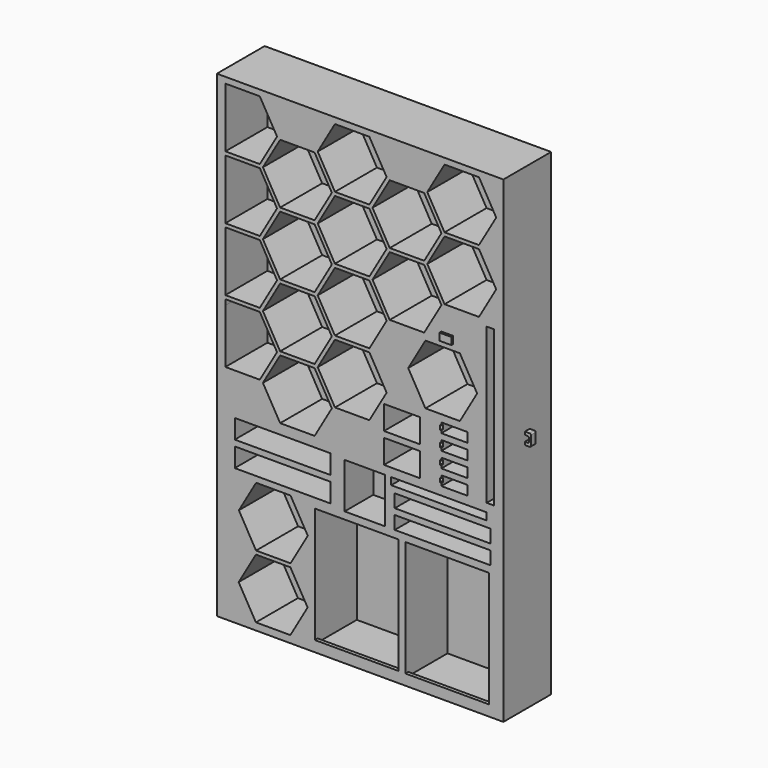
from build123d import *

# Parameters (mm, degrees)
F0_W      = 1200
F0_H      = 250
F1_DEPTH  = 2000
F2_W      = 40
F2_H      = 650
F2_W_2    = 400
F2_H_2    = 40
F3_DEPTH  = 220
F5_W      = 15
F5_H      = 650
F6_DEPTH  = 10
F8_W      = 400
F8_H      = 15
F9_DEPTH  = 10
F10_W     = 110
F10_H     = 40
F11_DEPTH = 75
F14_DEPTH = 9
F17_R     = 2.25
F18_DEPTH = 5
F19_R     = 2.25
F20_DEPTH = 5
F21_W     = 110
F21_H     = 40
F22_DEPTH = 75
F25_DEPTH = 9
F28_R     = 2.25
F29_DEPTH = 5
F30_R     = 2.25
F31_DEPTH = 5
F32_W     = 110
F32_H     = 40
F33_DEPTH = 75
F36_DEPTH = 9
F39_R     = 2.25
F40_DEPTH = 5
F41_R     = 2.25
F42_DEPTH = 5
F44_W     = 150
F44_H     = 100
F45_DEPTH = 150
F47_DEPTH = 220
F49_W     = 110
F49_H     = 40
F50_DEPTH = 75
F52_DEPTH = 9
F55_R     = 2.25
F56_DEPTH = 5
F57_R     = 2.25
F58_DEPTH = 5
F59_W     = 50
F59_H     = 30
F60_DEPTH = 10
F43_W     = 350
F43_H     = 500
F61_DEPTH = 220
F63_W     = 350
F63_H     = 15
F64_DEPTH = 15
F65_W     = 400
F65_H     = 80
F65_W_2   = 170
F65_H_2   = 190
F65_H_3   = 55
F66_DEPTH = 220
F67_W     = 400
F67_H     = 80
F67_W_2   = 170
F67_H_2   = 190
F67_H_3   = 55
F68_DEPTH = 70
F70_W     = 25
F70_H     = 50
F71_DEPTH = 25
F72_W     = 17
F72_H     = 25
F73_DEPTH = 230
F74_R     = 5


with BuildPart() as f1:
    # F0 (on Top) → F1 (new body)
    with BuildSketch(Plane.XY):
        with Locations((6.9150235504, -6.4473892562)):
            Rectangle(F0_W, F0_H)
    extrude(amount=F1_DEPTH)

    # F2 (on face) → F3 (cut)
    with BuildSketch(Plane.XZ.offset(131.4473892562)):
        with Locations((556.9150235504, 1110)):
            Rectangle(F2_W, F2_H)
        with Locations((336.9150235504, 740)):
            Rectangle(F2_W_2, F2_H_2)
    extrude(amount=-F3_DEPTH, mode=Mode.SUBTRACT)

    # F5 (on offset) → F6 (join)
    with BuildSketch(Plane.YZ.offset(576.9150235504)):
        with Locations((-123.9473892562, 1110)):
            Rectangle(F5_W, F5_H)
    extrude(amount=-F6_DEPTH)

    # F8 (on offset) → F9 (join)
    with BuildSketch(Plane.XY.offset(760)):
        with Locations((336.9150235504, -123.9473892562)):
            Rectangle(F8_W, F8_H)
    extrude(amount=-F9_DEPTH)

    # F10 (on face) → F11 (cut)
    with BuildSketch(Plane.XZ.offset(131.4473892562)):
        with Locations((401.9150235504, 805)):
            Rectangle(F10_W, F10_H)
    extrude(amount=-F11_DEPTH, mode=Mode.SUBTRACT)

    # F13 (on offset) → F14 (cut, symmetric)
    with BuildSketch(Plane.XY.offset(805)):
        with BuildLine():
            Line((351.4358103275, -123.4473892562), (346.9150235504, -123.4473892562))
            ThreePointArc((346.9150235504, -123.4473892562), (338.9150235504, -127.4473892562), (346.9150235504, -131.4473892562))
            Line((346.9150235504, -131.4473892562), (351.4358103275, -131.4473892562))
            Line((351.4358103275, -131.4473892562), (351.4358103275, -123.4473892562))
        make_face()
    extrude(amount=F14_DEPTH, both=True, mode=Mode.SUBTRACT)

    # F17 (on offset) → F18 (cut)
    with BuildSketch(Plane.XY.offset(814)):
        with Locations((343.9150235504, -127.4473892562)):
            Circle(F17_R)
    extrude(amount=F18_DEPTH, mode=Mode.SUBTRACT)

    # F19 (on offset) → F20 (cut)
    with BuildSketch(Plane.XY.offset(796)):
        with Locations((343.9150235504, -127.4473892562)):
            Circle(F19_R)
    extrude(amount=-F20_DEPTH, mode=Mode.SUBTRACT)

    # F21 (on face) → F22 (cut)
    with BuildSketch(Plane.XZ.offset(131.4473892562)):
        with Locations((401.9150235504, 870)):
            Rectangle(F21_W, F21_H)
    extrude(amount=-F22_DEPTH, mode=Mode.SUBTRACT)

    # F24 (on offset) → F25 (cut, symmetric)
    with BuildSketch(Plane.XY.offset(870)):
        with BuildLine():
            Line((351.4358103275, -123.4473892562), (346.9150235504, -123.4473892562))
            ThreePointArc((346.9150235504, -123.4473892562), (338.9150235504, -127.4473892562), (346.9150235504, -131.4473892562))
            Line((346.9150235504, -131.4473892562), (351.4358103275, -131.4473892562))
            Line((351.4358103275, -131.4473892562), (351.4358103275, -123.4473892562))
        make_face()
    extrude(amount=F25_DEPTH, both=True, mode=Mode.SUBTRACT)

    # F28 (on offset) → F29 (cut)
    with BuildSketch(Plane.XY.offset(879)):
        with Locations((343.9150235504, -127.4473892562)):
            Circle(F28_R)
    extrude(amount=F29_DEPTH, mode=Mode.SUBTRACT)

    # F30 (on offset) → F31 (cut)
    with BuildSketch(Plane.XY.offset(861)):
        with Locations((343.9150235504, -127.4473892562)):
            Circle(F30_R)
    extrude(amount=-F31_DEPTH, mode=Mode.SUBTRACT)

    # F32 (on face) → F33 (cut)
    with BuildSketch(Plane.XZ.offset(131.4473892562)):
        with Locations((401.9150235504, 935)):
            Rectangle(F32_W, F32_H)
    extrude(amount=-F33_DEPTH, mode=Mode.SUBTRACT)

    # F35 (on offset) → F36 (cut, symmetric)
    with BuildSketch(Plane.XY.offset(935)):
        with BuildLine():
            Line((346.9150235504, -131.4473892562), (346.9150235504, -123.4473892562))
            ThreePointArc((346.9150235504, -123.4473892562), (338.9150235504, -127.4473892562), (346.9150235504, -131.4473892562))
        make_face()
    extrude(amount=F36_DEPTH, both=True, mode=Mode.SUBTRACT)

    # F39 (on offset) → F40 (cut)
    with BuildSketch(Plane.XY.offset(944)):
        with Locations((343.9150235504, -127.4473892562)):
            Circle(F39_R)
    extrude(amount=F40_DEPTH, mode=Mode.SUBTRACT)

    # F41 (on offset) → F42 (cut)
    with BuildSketch(Plane.XY.offset(926)):
        with Locations((343.9150235504, -127.4473892562)):
            Circle(F41_R)
    extrude(amount=-F42_DEPTH, mode=Mode.SUBTRACT)

    # F44 (on face) → F45 (cut)
    with BuildSketch(Plane.XZ.offset(131.4473892562)):
        with Locations((181.9150235504, 960)):
            Rectangle(F44_W, F44_H)
        with Locations((181.9150235504, 835)):
            Rectangle(F44_W, F44_H)
    extrude(amount=-F45_DEPTH, mode=Mode.SUBTRACT)

    # F46 (on face) → F47 (cut)
    with BuildSketch(Plane.XZ.offset(131.4473892562)):
        Polygon((424.7462399017, 1050), (496.9150235504, 1175), (424.7462399017, 1300), (280.4086726043, 1300), (208.2398889556, 1175), (280.4086726043, 1050), align=None)
    extrude(amount=-F47_DEPTH, mode=Mode.SUBTRACT)

    # F49 (on face) → F50 (cut)
    with BuildSketch(Plane.XZ.offset(131.4473892562)):
        with Locations((401.9150235504, 1000)):
            Rectangle(F49_W, F49_H)
    extrude(amount=-F50_DEPTH, mode=Mode.SUBTRACT)

    # F51 (on offset) → F52 (cut, symmetric)
    with BuildSketch(Plane.XY.offset(1000)):
        with BuildLine():
            Line((346.9150235504, -131.4473892562), (346.9150235504, -123.4473892562))
            ThreePointArc((346.9150235504, -123.4473892562), (338.9150235504, -127.4473892562), (346.9150235504, -131.4473892562))
        make_face()
    extrude(amount=F52_DEPTH, both=True, mode=Mode.SUBTRACT)

    # F55 (on offset) → F56 (cut)
    with BuildSketch(Plane.XY.offset(1009)):
        with Locations((343.9150235504, -127.4473892562)):
            Circle(F55_R)
    extrude(amount=F56_DEPTH, mode=Mode.SUBTRACT)

    # F57 (on offset) → F58 (cut)
    with BuildSketch(Plane.XY.offset(991)):
        with Locations((343.9150235504, -127.4473892562)):
            Circle(F57_R)
    extrude(amount=-F58_DEPTH, mode=Mode.SUBTRACT)

    # F59 (on face) → F60 (join)
    with BuildSketch(Plane.XZ.offset(131.4473892562)):
        with Locations((371.9150235504, 1340)):
            Rectangle(F59_W, F59_H)
    extrude(amount=F60_DEPTH)

    # F43 (on face) → F61 (cut)
    with BuildSketch(Plane.XZ.offset(131.4473892562)):
        with Locations((371.9150235504, 280)):
            Rectangle(F43_W, F43_H)
        with Locations((-8.0849764496, 280)):
            Rectangle(F43_W, F43_H)
    extrude(amount=-F61_DEPTH, mode=Mode.SUBTRACT)

    # F63 (on offset) → F64 (join)
    with BuildSketch(Plane.XY.offset(30)):
        with Locations((-8.0849764496, -123.9473892562)):
            Rectangle(F63_W, F63_H)
        with Locations((371.9150235504, -123.9473892562)):
            Rectangle(F63_W, F63_H)
    extrude(amount=F64_DEPTH)

    # F65 (on face) → F66 (cut)
    with BuildSketch(Plane.XZ.offset(131.4473892562)):
        Polygon((504.7462399017, 1975), (360.4086726043, 1975), (288.2398889556, 1850), (360.4086726043, 1725), (504.7462399017, 1725), (576.9150235504, 1850), align=None)
        Polygon((275.2495078988, 1842.5), (130.9119406014, 1842.5), (58.7431569527, 1717.5), (130.9119406014, 1592.5), (275.2495078988, 1592.5), (347.4182915475, 1717.5), align=None)
        Polygon((504.7462399017, 1710), (360.4086726043, 1710), (288.2398889556, 1585), (360.4086726043, 1460), (504.7462399017, 1460), (576.9150235504, 1585), align=None)
        Polygon((275.2495078989, 1577.5), (130.9119406014, 1577.5), (58.7431569527, 1452.5), (130.9119406014, 1327.5), (275.2495078989, 1327.5), (347.4182915476, 1452.5), align=None)
        Polygon((45.752775896, 1975), (-98.5847914014, 1975), (-170.7535750501, 1850), (-98.5847914014, 1725), (45.752775896, 1725), (117.9215595446, 1850), align=None)
        Polygon((45.7527758959, 1710), (-98.5847914014, 1710), (-170.7535750501, 1585), (-98.5847914014, 1460), (45.7527758959, 1460), (117.9215595446, 1585), align=None)
        Polygon((-183.7439561069, 1842.5), (-328.0815234043, 1842.5), (-400.250307053, 1717.5), (-328.0815234043, 1592.5), (-183.7439561069, 1592.5), (-111.5751724582, 1717.5), align=None)
        Polygon((-183.7439561068, 1577.5), (-328.0815234043, 1577.5), (-400.250307053, 1452.5), (-328.0815234043, 1327.5), (-183.7439561069, 1327.5), (-111.5751724581, 1452.5), align=None)
        Polygon((45.7527758961, 1445), (-98.5847914013, 1445), (-170.75357505, 1320), (-98.5847914013, 1195), (45.7527758961, 1195), (117.9215595448, 1320), align=None)
        Polygon((-183.7439561068, 1312.5), (-328.0815234042, 1312.5), (-400.2503070529, 1187.5), (-328.0815234042, 1062.5), (-183.7439561068, 1062.5), (-111.5751724581, 1187.5), align=None)
        Polygon((45.7527758962, 1180), (-98.5847914012, 1180), (-170.7535750499, 1055), (-98.5847914012, 930), (45.7527758962, 930), (117.9215595449, 1055), align=None)
        Polygon((-183.7439561067, 1047.5), (-328.0815234041, 1047.5), (-400.2503070528, 922.5), (-328.0815234041, 797.5), (-183.7439561067, 797.5), (-111.575172458, 922.5), align=None)
        Polygon((-285.2537600983, 280), (-429.5913273957, 280), (-501.7601110444, 155), (-429.5913273957, 30), (-285.2537600983, 30), (-213.0849764496, 155), align=None)
        Polygon((-284.4977985783, 545), (-428.8353658757, 545), (-501.0041495244, 420), (-428.8353658757, 295), (-284.4977985783, 295), (-212.3290149296, 420), align=None)
        with Locations((-318.0849764496, 610)):
            Rectangle(F65_W, F65_H)
        with Locations((-318.0849764496, 715)):
            Rectangle(F65_W, F65_H)
        with Locations((26.9150235504, 655)):
            Rectangle(F65_W_2, F65_H_2)
        with Locations((351.9150235504, 587.5)):
            Rectangle(F65_W, F65_H_3)
        with Locations((351.9150235504, 667.5)):
            Rectangle(F65_W, F65_H_3)
        Polygon((-341.0719044611, 1585), (-413.2406881098, 1710), (-557.5782554072, 1710), (-557.5782554072, 1460), (-413.2406881098, 1460), align=None)
        Polygon((-341.0719044611, 1850), (-413.2406881098, 1975), (-557.5782554072, 1975), (-557.5782554072, 1725), (-413.2406881098, 1725), align=None)
        Polygon((-341.071904461, 1320), (-413.2406881097, 1445), (-557.5782554071, 1445), (-557.5782554072, 1195), (-413.2406881097, 1195), align=None)
        Polygon((-341.0719044609, 1055), (-413.2406881096, 1180), (-557.578255407, 1180), (-557.5782554072, 1157.0620726157), (-557.5782554072, 952.9379273841), (-557.5782554072, 930), (-413.2406881096, 930), align=None)
    extrude(amount=-F66_DEPTH, mode=Mode.SUBTRACT)

    # F67 (on face) → F68 (join)
    with BuildSketch(Plane.XZ.offset(-88.5526107438)):
        with Locations((-318.0849764496, 715)):
            Rectangle(F67_W, F67_H)
        with Locations((26.9150235504, 655)):
            Rectangle(F67_W_2, F67_H_2)
        with Locations((351.9150235504, 667.5)):
            Rectangle(F67_W, F67_H_3)
        with Locations((351.9150235504, 587.5)):
            Rectangle(F67_W, F67_H_3)
        with Locations((-318.0849764496, 610)):
            Rectangle(F67_W, F67_H)
    extrude(amount=F68_DEPTH)

    # F70 (on face) → F71 (join)
    with BuildSketch(Plane.YZ.offset(606.9150235504)):
        with Locations((-6.4473892562, 1000)):
            Rectangle(F70_W, F70_H)
    extrude(amount=F71_DEPTH)

    # F72 (on face) → F73 (cut)
    with BuildSketch(Plane.XZ.offset(18.9473892562)):
        with Locations((615.4150235504, 1000)):
            Rectangle(F72_W, F72_H)
    extrude(amount=-F73_DEPTH, mode=Mode.SUBTRACT)

    # F74
    f74_edges = [f1.edges().sort_by_distance(p)[0] for p in [
        (631.915024, -6.447389, 1025),
        (631.915024, -6.447389, 975),
        (623.915024, -6.447389, 1012.5),
        (623.915024, -6.447389, 987.5),
    ]]
    fillet(f74_edges, radius=F74_R)


solid = f1.part
